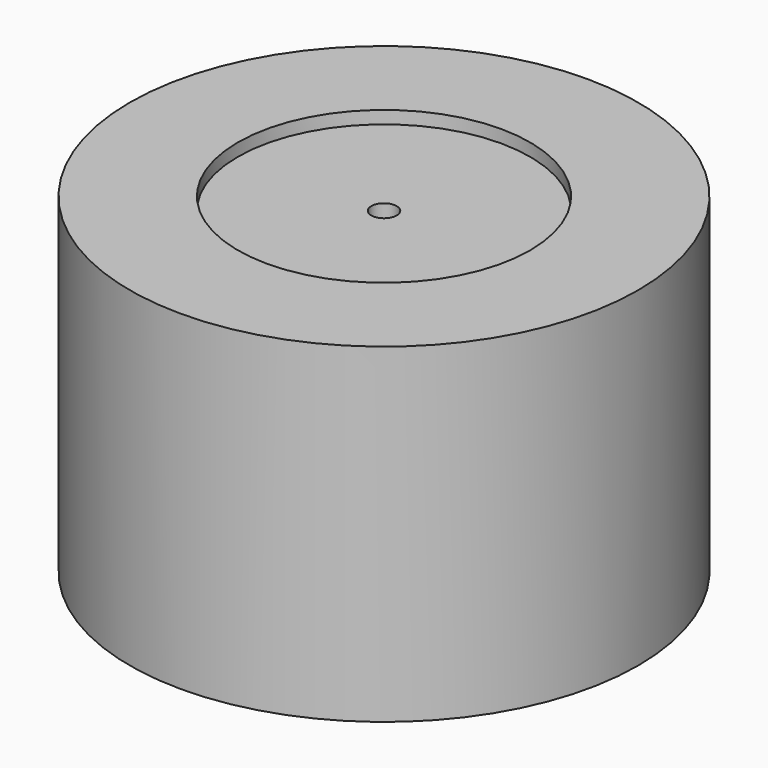
from build123d import *

# Parameters (mm, degrees)
F0_R     = 20
F1_DEPTH = 25
F2_D     = 2
F2_DEPTH = 27
F2_TIP   = 0.600860619
F3_R     = 20
F4_DEPTH = 1
F5_D     = 23
F5_DEPTH = 4
F5_TIP   = 6.9098971188


with BuildPart() as f1:
    # F0 (on Top) → F1 (new body)
    with BuildSketch(Plane.XY):
        Circle(F0_R)
    extrude(amount=F1_DEPTH)

    # F2
    with Locations(Plane(origin=(0, 0, 0), x_dir=(1, 0, 0), z_dir=(0, 0, -1))):
        with Locations((0, 0)):
            Hole(F2_D / 2, depth=F2_DEPTH)
            with Locations((0, 0, -(F2_DEPTH + F2_TIP / 2))):  # 118° drill point
                Cone(0, F2_D / 2, F2_TIP, mode=Mode.SUBTRACT)

    # F3 (on face) → F4 (join)
    with BuildSketch(Plane.XY.offset(25)):
        Circle(F3_R)
    extrude(amount=F4_DEPTH)

    # F5 (one way)
    with BuildSketch(Plane(origin=(0, 0, 25), x_dir=(1, 0, 0), z_dir=(0, 0, -1))):
        with Locations((0, 0)):
            Circle(F5_D / 2)
    extrude(amount=-F5_DEPTH, mode=Mode.SUBTRACT)
    with Locations(Plane(origin=(0, 0, 25), x_dir=(1, 0, 0), z_dir=(0, 0, -1))):
        with Locations((0, 0)):
            with Locations((0, 0, -(F5_DEPTH + F5_TIP / 2))):  # 118° drill point
                Cone(0, F5_D / 2, F5_TIP, mode=Mode.SUBTRACT)


solid = f1.part
